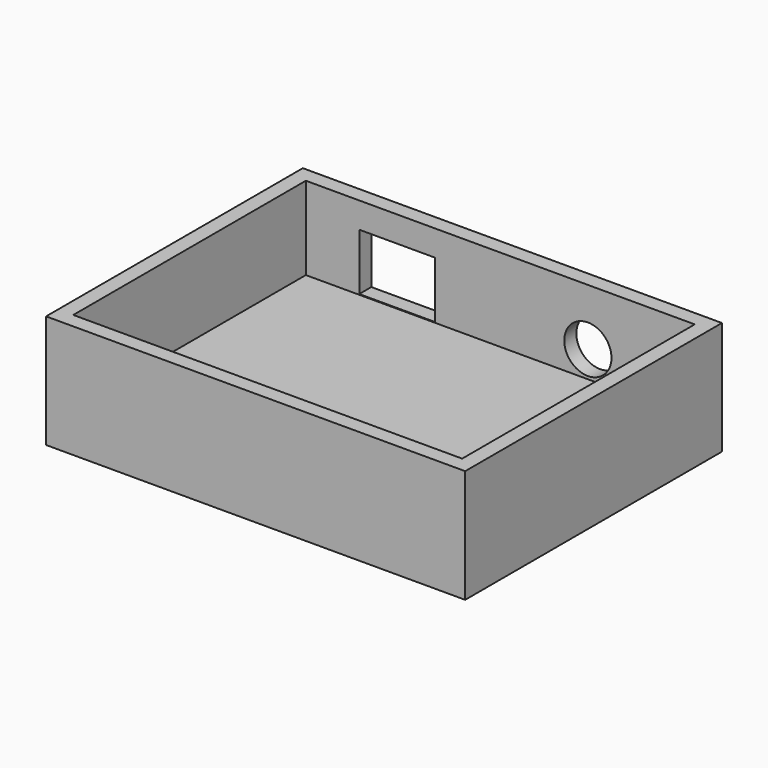
from build123d import *

# Parameters (mm, degrees)
F0_W     = 70.485
F0_H     = 53.975
F1_DEPTH = 19.05
F2_T     = -2.54
F3_W     = 12.7
F3_H     = 9.525
F4_DEPTH = 3.302
F6_D     = 7.9375
F6_DEPTH = 12.7
F6_TIP   = 2.3846655818
F7_DEPTH = 2.54


with BuildPart() as f1:
    # F0 (on Top) → F1 (new body)
    with BuildSketch(Plane.XY):
        Rectangle(F0_W, F0_H)
    extrude(amount=F1_DEPTH)

    # F2
    f2_openings = [f1.faces().sort_by_distance(p)[0] for p in [
        (0, 0, 19.05),
    ]]
    offset(amount=F2_T, openings=f2_openings)

    # F3 (on face) → F4 (cut)
    with BuildSketch(Plane(origin=(0, 26.9875, 0), x_dir=(-1, 0, 0), z_dir=(0, 1, 0))):
        with Locations((17.3686798662, 9.959281401)):
            Rectangle(F3_W, F3_H)
    extrude(amount=-F4_DEPTH, mode=Mode.SUBTRACT)

    # F6
    with Locations(Plane(origin=(0, 26.9875, 0), x_dir=(-1, 0, 0), z_dir=(0, 1, 0))):
        with Locations((-14.7299328819, 9.525)):
            Hole(F6_D / 2, depth=F6_DEPTH)
            with Locations((0, 0, -(F6_DEPTH + F6_TIP / 2))):  # 118° drill point
                Cone(0, F6_D / 2, F6_TIP, mode=Mode.SUBTRACT)

    # F7 (add): a face of the model
    f7_faces = [f1.faces().sort_by_distance(p)[0] for p in [
        (0, 0, 2.54),
    ]]
    extrude(f7_faces, amount=F7_DEPTH)


solid = f1.part
